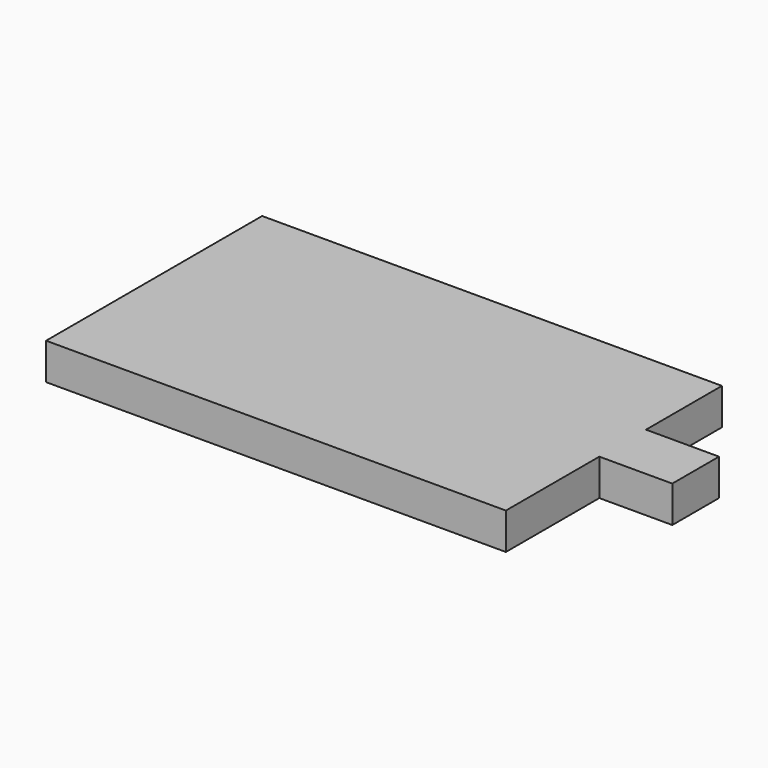
from build123d import *

# Parameters (mm, degrees)
BOX004_W     = 63
BOX004_H     = 37
BOX004_DEPTH = 5
BOX003_W     = 10
BOX003_H     = 8
BOX003_DEPTH = 5


with BuildPart() as cube004:
    # Box004 → Box004 (new body)
    with BuildSketch(Plane.XY):
        with Locations((31.5, 18.5)):
            Rectangle(BOX004_W, BOX004_H)
    extrude(amount=BOX004_DEPTH)


with BuildPart() as battery_model001:
    # Box003 → Box003 (new body)
    with BuildSketch(Plane(origin=(63, 16, 0), x_dir=(1, 0, 0), z_dir=(0, 0, 1))):
        with Locations((5, 4)):
            Rectangle(BOX003_W, BOX003_H)
    extrude(amount=BOX003_DEPTH)

    # Fusion001: union Cube004
    add(cube004.part)


with BuildPart() as battery_model001_1:
    # Fusion001 placement: moved
    add(battery_model001.part.moved(Location((3, 3, 3))))


solid = battery_model001_1.part
